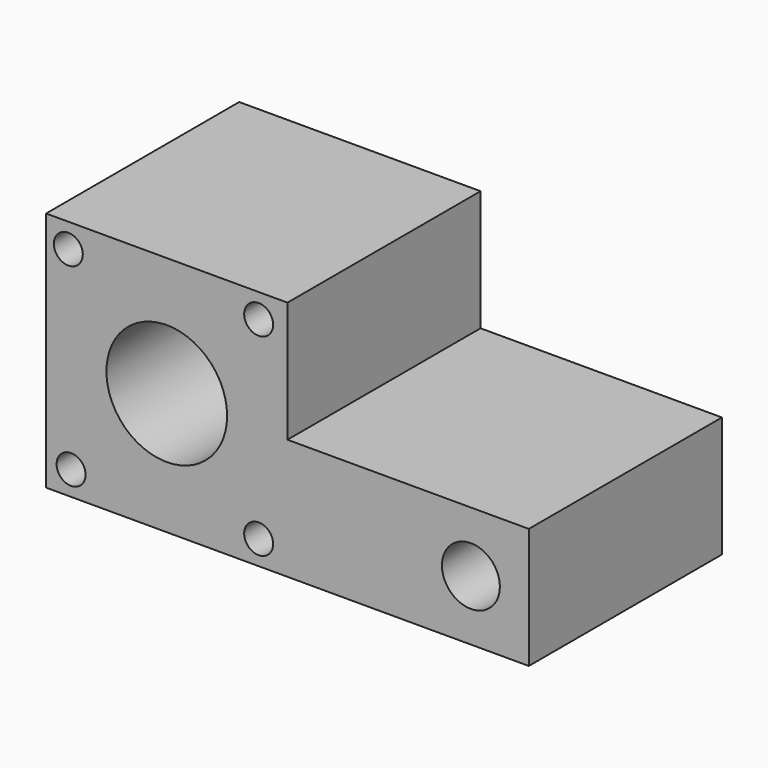
from build123d import *

# Parameters (mm, degrees)
F0_R     = 3
F0_R_2   = 6
F0_R_3   = 12.5
F1_DEPTH = 50


with BuildPart() as f1:
    # F0 (on Front) → F1 (new body)
    with BuildSketch(Plane.XZ):
        Polygon((15.607211, 34.212285), (-34.392789, 34.212285), (-34.392789, -15.787715), (65.607211, -15.787715), (65.607211, 9.212285), (15.607211, 9.212285), align=None)
        with Locations((-29.212285, -10.787715)):
            Circle(F0_R, mode=Mode.SUBTRACT)
        with Locations((9.641493, -10.787715)):
            Circle(F0_R, mode=Mode.SUBTRACT)
        with Locations((53.607211, -3.287715)):
            Circle(F0_R_2, mode=Mode.SUBTRACT)
        with Locations((-9.392789, 9.497589)):
            Circle(F0_R_3, mode=Mode.SUBTRACT)
        with Locations((-29.787896, 29.212285)):
            Circle(F0_R, mode=Mode.SUBTRACT)
        with Locations((9.641493, 29.212285)):
            Circle(F0_R, mode=Mode.SUBTRACT)
    extrude(amount=F1_DEPTH)


solid = f1.part
